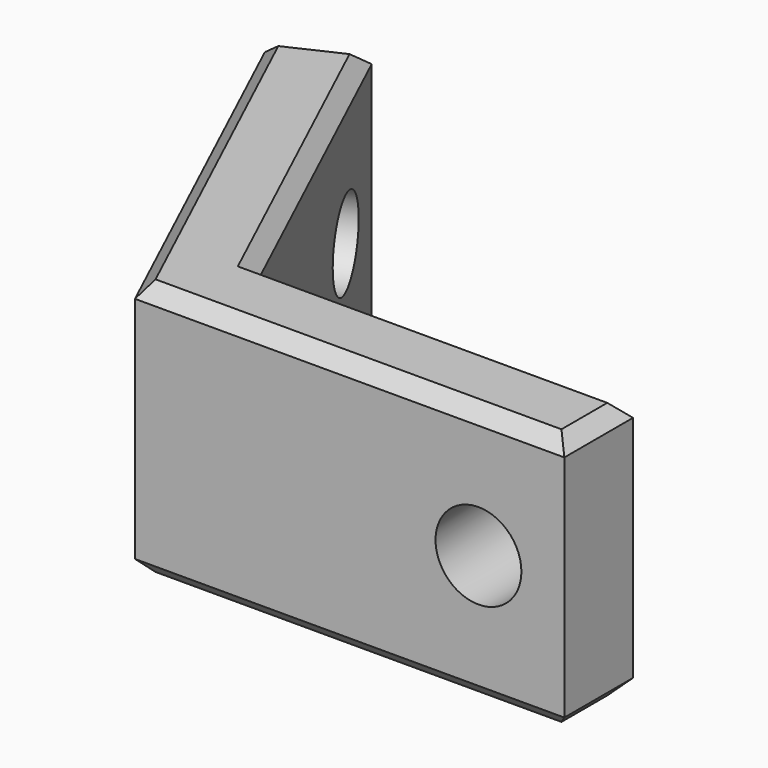
from build123d import *

# Parameters (mm, degrees)
PAD_DEPTH       = 18
SKETCH001_R     = 3
POCKET_DEPTH    = 39.7525374288
SKETCH002_R     = 3
POCKET001_DEPTH = 29.7259431815
CHAMFER_SIZE    = 1


with BuildPart() as part:
    # Sketch → Pad (new body)
    with BuildSketch(Plane.XY):
        Polygon((-8.2819133905, -13), (-20.9604612427, 14.1892336111), (-15.5226145205, 16.7249431815), (-4.4594918257, -7), (21.7180866095, -7), (21.7180866095, -13), align=None)
    extrude(amount=PAD_DEPTH)

    # Sketch001 (on Face1 of Pad) → Pocket (cut, through all)
    with BuildSketch(Plane(origin=(-11.7820012315, -5.4940374026, 0), x_dir=(0.4226182617, -0.906307787, 0), z_dir=(-0.906307787, -0.4226182617, 0))):
        with Locations((-15.7180866095, 9)):
            Circle(SKETCH001_R)
    extrude(amount=-POCKET_DEPTH, mode=Mode.SUBTRACT)

    # Sketch002 (on Face2 of Pocket) → Pocket001 (cut, through all)
    with BuildSketch(Plane.XZ.offset(13)):
        with Locations((15.7180866095, 9)):
            Circle(SKETCH002_R)
    extrude(amount=-POCKET001_DEPTH, mode=Mode.SUBTRACT)

    # Chamfer
    chamfer_edges = [part.edges().sort_by_distance(p)[0] for p in [
        (-14.621187, 0.594617, 18),
        (-18.241538, 15.457088, 18),
        (-9.991053, 4.862472, 18),
        (8.629297, -7, 18),
        (21.718087, -10, 18),
        (6.718087, -13, 18),
        (-14.621187, 0.594617, 0),
        (-18.241538, 15.457088, 0),
        (-9.991053, 4.862472, 0),
        (8.629297, -7, 0),
        (21.718087, -10, 0),
        (6.718087, -13, 0),
    ]]
    chamfer(chamfer_edges, length=CHAMFER_SIZE)


solid = part.part
